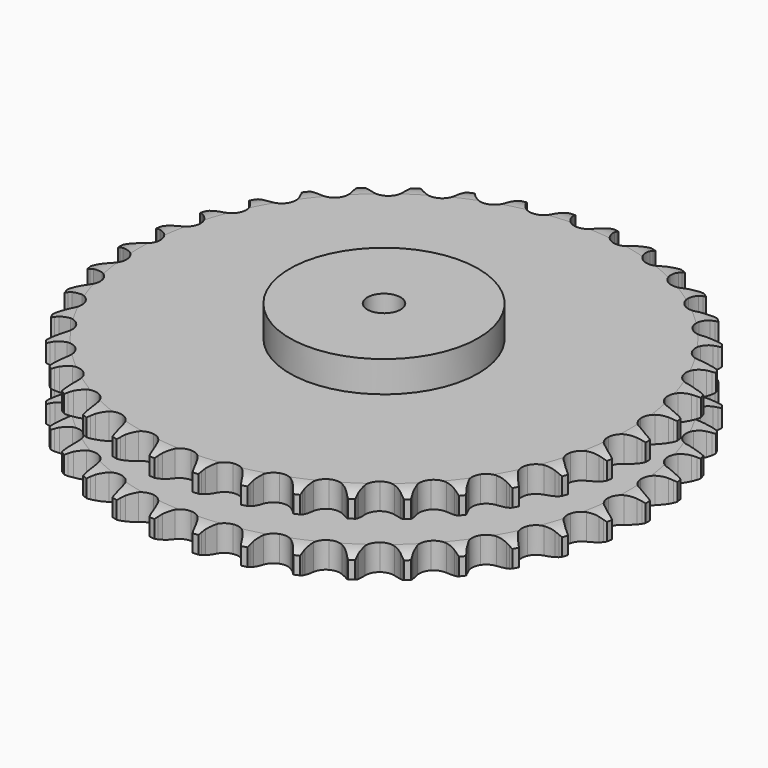
from build123d import *

# Parameters (mm, degrees)
PAD_DEPTH         = 72
SKETCH001_R       = 85
PAD001_DEPTH      = 100
SKETCH002_R       = 15
POCKET_DEPTH      = 0.001
POCKET_DEPTH_BACK = 100.001


with BuildPart() as part:
    # Sprocket → Pad (new body)
    with BuildSketch(Plane.XY):
        with BuildLine():
            ThreePointArc((-20.010023, 241.485064), (-17.70765, 238.347274), (-16.034715, 234.833312))
            Line((-16.034715, 234.833312), (-14.796002, 231.439679))
            ThreePointArc((-14.796002, 231.439679), (-12.840789, 227.085923), (-10.280152, 223.058369))
            ThreePointArc((-10.280152, 223.058369), (-5.754103, 219.251698), (0, 217.885624))
            ThreePointArc((0, 217.885624), (5.754103, 219.251698), (10.280152, 223.058369))
            ThreePointArc((10.280152, 223.058369), (12.840789, 227.085923), (14.796002, 231.439679))
            Line((14.796002, 231.439679), (16.034715, 234.833312))
            ThreePointArc((16.034715, 234.833312), (17.70765, 238.347274), (20.010023, 241.485064))
            ThreePointArc((20.010023, 241.485064), (21.764531, 238.011111), (22.83627, 234.269719))
            Line((22.83627, 234.269719), (23.499515, 230.718485))
            ThreePointArc((23.499515, 230.718485), (24.711457, 226.102291), (26.574257, 221.708201))
            ThreePointArc((26.574257, 221.708201), (30.412019, 217.208485), (35.862795, 214.913948))
            ThreePointArc((35.862795, 214.913948), (41.763268, 215.314297), (46.854145, 218.324086))
            Line((46.854145, 218.324086), (52.687923, 225.847801))
            ThreePointArc((52.687923, 225.847801), (53.535229, 227.443825), (54.468315, 228.991264))
            ThreePointArc((54.468315, 228.991264), (56.696813, 232.181944), (59.484247, 234.89798))
            ThreePointArc((59.484247, 234.89798), (60.643033, 231.182626), (61.084342, 227.315858))
            Line((61.084342, 227.315858), (61.154027, 223.703893))
            ThreePointArc((61.154027, 223.703893), (61.589639, 218.951178), (62.703789, 214.310411))
            ThreePointArc((62.703789, 214.310411), (65.74858, 209.240391), (70.747347, 206.07998))
            ThreePointArc((70.747347, 206.07998), (76.63324, 205.503682), (82.150079, 207.634491))
            Line((82.150079, 207.634491), (89.142655, 214.095385))
            ThreePointArc((89.142655, 214.095385), (90.241102, 215.530178), (91.416162, 216.902931))
            ThreePointArc((91.416162, 216.902931), (94.139434, 219.683297), (97.335897, 221.903493))
            ThreePointArc((97.335897, 221.903493), (97.86735, 218.048081), (97.666191, 214.161414))
            Line((97.666191, 214.161414), (97.140416, 210.587241))
            ThreePointArc((97.140416, 210.587241), (96.787816, 205.827648), (97.122925, 201.066792))
            ThreePointArc((97.122925, 201.066792), (99.291692, 195.564764), (103.702095, 191.624687))
            ThreePointArc((103.702095, 191.624687), (109.412857, 190.087463), (115.205173, 191.281169))
            Line((115.205173, 191.281169), (123.165807, 196.503004))
            ThreePointArc((123.165807, 196.503004), (124.485432, 197.73743), (125.870413, 198.898053))
            ThreePointArc((125.870413, 198.898053), (129.014177, 201.192261), (132.532476, 202.856056))
            ThreePointArc((132.532476, 202.856056), (132.422102, 198.965753), (131.583962, 195.165205))
            Line((131.583962, 195.165205), (130.477068, 191.726319))
            ThreePointArc((130.477068, 191.726319), (129.345874, 187.089677), (128.892801, 182.338595))
            ThreePointArc((128.892801, 182.338595), (130.126384, 176.55464), (133.82812, 171.942373))
            ThreePointArc((133.82812, 171.942373), (139.207976, 169.486154), (145.11777, 169.710195))
            Line((145.11777, 169.710195), (153.829318, 173.550533))
            ThreePointArc((153.829318, 173.550533), (155.334124, 174.550921), (156.891249, 175.467753))
            ThreePointArc((156.891249, 175.467753), (160.36975, 177.213226), (164.113916, 178.275236))
            ThreePointArc((164.113916, 178.275236), (163.364724, 174.456158), (161.912465, 170.845398))
            Line((161.912465, 170.845398), (160.254646, 167.635602))
            ThreePointArc((160.254646, 167.635602), (158.375714, 163.248386), (157.146818, 158.636676))
            ThreePointArc((157.146818, 158.636676), (157.411569, 152.728566), (160.303664, 147.569918))
            ThreePointArc((160.303664, 147.569918), (165.205865, 144.261703), (171.071933, 143.509969))
            Line((171.071933, 143.509969), (180.296765, 145.864057))
            ThreePointArc((180.296765, 145.864057), (181.945707, 146.603117), (183.632499, 147.251151))
            ThreePointArc((183.632499, 147.251151), (187.350854, 148.400275), (191.218755, 148.831531))
            ThreePointArc((191.218755, 148.831531), (189.851181, 145.187853), (187.824418, 141.865373))
            Line((187.824418, 141.865373), (185.660895, 138.972223))
            ThreePointArc((185.660895, 138.972223), (183.085477, 134.954105), (181.114279, 130.607563))
            ThreePointArc((181.114279, 130.607563), (180.402976, 124.736455), (182.406541, 119.172141))
            ThreePointArc((182.406541, 119.172141), (186.697368, 115.10217), (192.359699, 113.395165))
            Line((192.359699, 113.395165), (201.846187, 114.198789))
            ThreePointArc((201.846187, 114.198789), (203.594284, 114.656363), (205.364734, 115.017921))
            ThreePointArc((205.364734, 115.017921), (209.221515, 115.539352), (213.107645, 115.32809))
            ThreePointArc((213.107645, 115.32809), (211.158994, 111.959203), (208.613011, 109.015631))
            Line((208.613011, 109.015631), (206.002798, 106.518044))
            ThreePointArc((206.002798, 106.518044), (202.801145, 102.978628), (200.141414, 99.015815))
            ThreePointArc((200.141414, 99.015815), (198.47346, 93.341858), (199.533843, 87.523658))
            ThreePointArc((199.533843, 87.523658), (203.096254, 82.80295), (208.400395, 80.187237))
            Line((208.400395, 80.187237), (217.889771, 79.418476))
            ThreePointArc((217.889771, 79.418476), (219.689341, 79.582082), (221.495155, 79.647302))
            ThreePointArc((221.495155, 79.647302), (225.385158, 79.526816), (229.183515, 78.6788))
            ThreePointArc((229.183515, 78.6788), (226.70694, 75.676597), (223.711185, 73.192227))
            Line((223.711185, 73.192227), (220.725482, 71.158331))
            ThreePointArc((220.725482, 71.158331), (216.984927, 68.194162), (213.709214, 64.723174))
            ThreePointArc((213.709214, 64.723174), (211.130106, 59.401139), (211.218382, 53.487759))
            ThreePointArc((211.218382, 53.487759), (213.955203, 48.245081), (218.75647, 44.79201))
            Line((218.75647, 44.79201), (227.98989, 42.471834))
            ThreePointArc((227.98989, 42.471834), (229.791845, 42.337009), (231.583764, 42.104113))
            ThreePointArc((231.583764, 42.104113), (235.400882, 41.344996), (239.007855, 39.883357))
            ThreePointArc((239.007855, 39.883357), (236.070911, 37.329731), (232.7071, 35.37233))
            Line((232.7071, 35.37233), (229.427351, 33.857604))
            ThreePointArc((229.427351, 33.857604), (225.249925, 31.549538), (221.447583, 28.665054))
            ThreePointArc((221.447583, 28.665054), (218.027672, 23.840112), (217.141435, 17.992852))
            ThreePointArc((217.141435, 17.992852), (218.978013, 12.371212), (223.14544, 8.174974))
            Line((223.14544, 8.174974), (231.871039, 4.366671))
            ThreePointArc((231.871039, 4.366671), (233.626226, 3.937093), (235.355373, 3.412433))
            ThreePointArc((235.355373, 3.412433), (238.995483, 2.035393), (242.312684, 0))
            ThreePointArc((242.312684, 0), (238.995483, -2.035393), (235.355373, -3.412433))
            Line((235.355373, -3.412433), (231.871039, -4.366671))
            ThreePointArc((231.871039, -4.366671), (227.370693, -5.955676), (223.14544, -8.174974))
            ThreePointArc((223.14544, -8.174974), (218.978013, -12.371212), (217.141435, -17.992852))
            ThreePointArc((217.141435, -17.992852), (218.027672, -23.840112), (221.447583, -28.665054))
            Line((221.447583, -28.665054), (229.427351, -33.857604))
            ThreePointArc((229.427351, -33.857604), (231.087893, -34.570217), (232.7071, -35.37233))
            ThreePointArc((232.7071, -35.37233), (236.070911, -37.329731), (239.007855, -39.883357))
            ThreePointArc((239.007855, -39.883357), (235.400882, -41.344996), (231.583764, -42.104113))
            Line((231.583764, -42.104113), (227.98989, -42.471834))
            ThreePointArc((227.98989, -42.471834), (223.289381, -43.298434), (218.75647, -44.79201))
            ThreePointArc((218.75647, -44.79201), (213.955203, -48.245081), (211.218382, -53.487759))
            ThreePointArc((211.218382, -53.487759), (211.130106, -59.401139), (213.709214, -64.723174))
            Line((213.709214, -64.723174), (220.725482, -71.158331))
            ThreePointArc((220.725482, -71.158331), (222.246084, -72.134542), (223.711185, -73.192227))
            ThreePointArc((223.711185, -73.192227), (226.70694, -75.676597), (229.183515, -78.6788))
            ThreePointArc((229.183515, -78.6788), (225.385158, -79.526816), (221.495155, -79.647302))
            Line((221.495155, -79.647302), (217.889771, -79.418476))
            ThreePointArc((217.889771, -79.418476), (213.117317, -79.460124), (208.400395, -80.187237))
            ThreePointArc((208.400395, -80.187237), (203.096254, -82.80295), (199.533843, -87.523658))
            ThreePointArc((199.533843, -87.523658), (198.47346, -93.341858), (200.141414, -99.015815))
            Line((200.141414, -99.015815), (206.002798, -106.518044))
            ThreePointArc((206.002798, -106.518044), (207.341982, -107.731224), (208.613011, -109.015631))
            ThreePointArc((208.613011, -109.015631), (211.158994, -111.959203), (213.107645, -115.32809))
            ThreePointArc((213.107645, -115.32809), (209.221515, -115.539352), (205.364734, -115.017921))
            Line((205.364734, -115.017921), (201.846187, -114.198789))
            ThreePointArc((201.846187, -114.198789), (197.131968, -113.454349), (192.359699, -113.395165))
            ThreePointArc((192.359699, -113.395165), (186.697368, -115.10217), (182.406541, -119.172141))
            ThreePointArc((182.406541, -119.172141), (180.402976, -124.736455), (181.114279, -130.607563))
            Line((181.114279, -130.607563), (185.660895, -138.972223))
            ThreePointArc((185.660895, -138.972223), (186.782131, -140.389279), (187.824418, -141.865373))
            ThreePointArc((187.824418, -141.865373), (189.851181, -145.187853), (191.218755, -148.831531))
            ThreePointArc((191.218755, -148.831531), (187.350854, -148.400275), (183.632499, -147.251151))
            Line((183.632499, -147.251151), (180.296765, -145.864057))
            ThreePointArc((180.296765, -145.864057), (175.769373, -144.353835), (171.071933, -143.509969))
            ThreePointArc((171.071933, -143.509969), (165.205865, -144.261703), (160.303664, -147.569918))
            ThreePointArc((160.303664, -147.569918), (157.411569, -152.728566), (157.146818, -158.636676))
            Line((157.146818, -158.636676), (160.254646, -167.635602))
            ThreePointArc((160.254646, -167.635602), (161.127351, -169.21788), (161.912465, -170.845398))
            ThreePointArc((161.912465, -170.845398), (163.364724, -174.456158), (164.113916, -178.275236))
            ThreePointArc((164.113916, -178.275236), (160.36975, -177.213226), (156.891249, -175.467753))
            Line((156.891249, -175.467753), (153.829318, -173.550533))
            ThreePointArc((153.829318, -173.550533), (149.612247, -171.315725), (145.11777, -169.710195))
            ThreePointArc((145.11777, -169.710195), (139.207976, -169.486154), (133.82812, -171.942373))
            ThreePointArc((133.82812, -171.942373), (130.126384, -176.55464), (128.892801, -182.338595))
            Line((128.892801, -182.338595), (130.477068, -191.726319))
            ThreePointArc((130.477068, -191.726319), (131.077436, -193.430659), (131.583962, -195.165205))
            ThreePointArc((131.583962, -195.165205), (132.422102, -198.965753), (132.532476, -202.856056))
            ThreePointArc((132.532476, -202.856056), (129.014177, -201.192261), (125.870413, -198.898053))
            Line((125.870413, -198.898053), (123.165807, -196.503004))
            ThreePointArc((123.165807, -196.503004), (119.37409, -193.604569), (115.205173, -191.281169))
            ThreePointArc((115.205173, -191.281169), (109.412857, -190.087463), (103.702095, -191.624687))
            ThreePointArc((103.702095, -191.624687), (99.291692, -195.564764), (97.122925, -201.066792))
            Line((97.122925, -201.066792), (97.140416, -210.587241))
            ThreePointArc((97.140416, -210.587241), (97.45207, -212.367154), (97.666191, -214.161414))
            ThreePointArc((97.666191, -214.161414), (97.86735, -218.048081), (97.335897, -221.903493))
            ThreePointArc((97.335897, -221.903493), (94.139434, -219.683297), (91.416162, -216.902931))
            Line((91.416162, -216.902931), (89.142655, -214.095385))
            ThreePointArc((89.142655, -214.095385), (85.879718, -210.612384), (82.150079, -207.634491))
            ThreePointArc((82.150079, -207.634491), (76.63324, -205.503682), (70.747347, -206.07998))
            ThreePointArc((70.747347, -206.07998), (65.74858, -209.240391), (62.703789, -214.310411))
            Line((62.703789, -214.310411), (61.154027, -223.703893))
            ThreePointArc((61.154027, -223.703893), (61.168466, -225.510826), (61.084342, -227.315858))
            ThreePointArc((61.084342, -227.315858), (60.643033, -231.182626), (59.484247, -234.89798))
            ThreePointArc((59.484247, -234.89798), (56.696813, -232.181944), (54.468315, -228.991264))
            Line((54.468315, -228.991264), (52.687923, -225.847801))
            ThreePointArc((52.687923, -225.847801), (50.042772, -221.875243), (46.854145, -218.324086))
            ThreePointArc((46.854145, -218.324086), (41.763268, -215.314297), (35.862795, -214.913948))
            ThreePointArc((35.862795, -214.913948), (30.412019, -217.208485), (26.574257, -221.708201))
            Line((26.574257, -221.708201), (23.499515, -230.718485))
            ThreePointArc((23.499515, -230.718485), (23.216346, -232.503151), (22.83627, -234.269719))
            ThreePointArc((22.83627, -234.269719), (21.764531, -238.011111), (20.010023, -241.485064))
            ThreePointArc((20.010023, -241.485064), (17.70765, -238.347274), (16.034715, -234.833312))
            Line((16.034715, -234.833312), (14.796002, -231.439679))
            ThreePointArc((14.796002, -231.439679), (12.840789, -227.085923), (10.280152, -223.058369))
            ThreePointArc((10.280152, -223.058369), (5.754103, -219.251698), (0, -217.885624))
            ThreePointArc((0, -217.885624), (-5.754103, -219.251698), (-10.280152, -223.058369))
            Line((-10.280152, -223.058369), (-14.796002, -231.439679))
            ThreePointArc((-14.796002, -231.439679), (-15.369055, -233.153396), (-16.034715, -234.833312))
            ThreePointArc((-16.034715, -234.833312), (-17.70765, -238.347274), (-20.010023, -241.485064))
            ThreePointArc((-20.010023, -241.485064), (-21.764531, -238.011111), (-22.83627, -234.269719))
            Line((-22.83627, -234.269719), (-23.499515, -230.718485))
            ThreePointArc((-23.499515, -230.718485), (-24.711457, -226.102291), (-26.574257, -221.708201))
            ThreePointArc((-26.574257, -221.708201), (-30.412019, -217.208485), (-35.862795, -214.913948))
            ThreePointArc((-35.862795, -214.913948), (-41.763268, -215.314297), (-46.854145, -218.324086))
            Line((-46.854145, -218.324086), (-52.687923, -225.847801))
            ThreePointArc((-52.687923, -225.847801), (-53.535229, -227.443825), (-54.468315, -228.991264))
            ThreePointArc((-54.468315, -228.991264), (-56.696813, -232.181944), (-59.484247, -234.89798))
            ThreePointArc((-59.484247, -234.89798), (-60.643033, -231.182626), (-61.084342, -227.315858))
            Line((-61.084342, -227.315858), (-61.154027, -223.703893))
            ThreePointArc((-61.154027, -223.703893), (-61.589639, -218.951178), (-62.703789, -214.310411))
            ThreePointArc((-62.703789, -214.310411), (-65.74858, -209.240391), (-70.747347, -206.07998))
            ThreePointArc((-70.747347, -206.07998), (-76.63324, -205.503682), (-82.150079, -207.634491))
            Line((-82.150079, -207.634491), (-89.142655, -214.095385))
            ThreePointArc((-89.142655, -214.095385), (-90.241102, -215.530178), (-91.416162, -216.902931))
            ThreePointArc((-91.416162, -216.902931), (-94.139434, -219.683297), (-97.335897, -221.903493))
            ThreePointArc((-97.335897, -221.903493), (-97.86735, -218.048081), (-97.666191, -214.161414))
            Line((-97.666191, -214.161414), (-97.140416, -210.587241))
            ThreePointArc((-97.140416, -210.587241), (-96.787816, -205.827648), (-97.122925, -201.066792))
            ThreePointArc((-97.122925, -201.066792), (-99.291692, -195.564764), (-103.702095, -191.624687))
            ThreePointArc((-103.702095, -191.624687), (-109.412857, -190.087463), (-115.205173, -191.281169))
            Line((-115.205173, -191.281169), (-123.165807, -196.503004))
            ThreePointArc((-123.165807, -196.503004), (-124.485432, -197.73743), (-125.870413, -198.898053))
            ThreePointArc((-125.870413, -198.898053), (-129.014177, -201.192261), (-132.532476, -202.856056))
            ThreePointArc((-132.532476, -202.856056), (-132.422102, -198.965753), (-131.583962, -195.165205))
            Line((-131.583962, -195.165205), (-130.477068, -191.726319))
            ThreePointArc((-130.477068, -191.726319), (-129.345874, -187.089677), (-128.892801, -182.338595))
            ThreePointArc((-128.892801, -182.338595), (-130.126384, -176.55464), (-133.82812, -171.942373))
            ThreePointArc((-133.82812, -171.942373), (-139.207976, -169.486154), (-145.11777, -169.710195))
            Line((-145.11777, -169.710195), (-153.829318, -173.550533))
            ThreePointArc((-153.829318, -173.550533), (-155.334124, -174.550921), (-156.891249, -175.467753))
            ThreePointArc((-156.891249, -175.467753), (-160.36975, -177.213226), (-164.113916, -178.275236))
            ThreePointArc((-164.113916, -178.275236), (-163.364724, -174.456158), (-161.912465, -170.845398))
            Line((-161.912465, -170.845398), (-160.254646, -167.635602))
            ThreePointArc((-160.254646, -167.635602), (-158.375714, -163.248386), (-157.146818, -158.636676))
            ThreePointArc((-157.146818, -158.636676), (-157.411569, -152.728566), (-160.303664, -147.569918))
            ThreePointArc((-160.303664, -147.569918), (-165.205865, -144.261703), (-171.071933, -143.509969))
            Line((-171.071933, -143.509969), (-180.296765, -145.864057))
            ThreePointArc((-180.296765, -145.864057), (-181.945707, -146.603117), (-183.632499, -147.251151))
            ThreePointArc((-183.632499, -147.251151), (-187.350854, -148.400275), (-191.218755, -148.831531))
            ThreePointArc((-191.218755, -148.831531), (-189.851181, -145.187853), (-187.824418, -141.865373))
            Line((-187.824418, -141.865373), (-185.660895, -138.972223))
            ThreePointArc((-185.660895, -138.972223), (-183.085477, -134.954105), (-181.114279, -130.607563))
            ThreePointArc((-181.114279, -130.607563), (-180.402976, -124.736455), (-182.406541, -119.172141))
            ThreePointArc((-182.406541, -119.172141), (-186.697368, -115.10217), (-192.359699, -113.395165))
            Line((-192.359699, -113.395165), (-201.846187, -114.198789))
            ThreePointArc((-201.846187, -114.198789), (-203.594284, -114.656363), (-205.364734, -115.017921))
            ThreePointArc((-205.364734, -115.017921), (-209.221515, -115.539352), (-213.107645, -115.32809))
            ThreePointArc((-213.107645, -115.32809), (-211.158994, -111.959203), (-208.613011, -109.015631))
            Line((-208.613011, -109.015631), (-206.002798, -106.518044))
            ThreePointArc((-206.002798, -106.518044), (-202.801145, -102.978628), (-200.141414, -99.015815))
            ThreePointArc((-200.141414, -99.015815), (-198.47346, -93.341858), (-199.533843, -87.523658))
            ThreePointArc((-199.533843, -87.523658), (-203.096254, -82.80295), (-208.400395, -80.187237))
            Line((-208.400395, -80.187237), (-217.889771, -79.418476))
            ThreePointArc((-217.889771, -79.418476), (-219.689341, -79.582082), (-221.495155, -79.647302))
            ThreePointArc((-221.495155, -79.647302), (-225.385158, -79.526816), (-229.183515, -78.6788))
            ThreePointArc((-229.183515, -78.6788), (-226.70694, -75.676597), (-223.711185, -73.192227))
            Line((-223.711185, -73.192227), (-220.725482, -71.158331))
            ThreePointArc((-220.725482, -71.158331), (-216.984927, -68.194162), (-213.709214, -64.723174))
            ThreePointArc((-213.709214, -64.723174), (-211.130106, -59.401139), (-211.218382, -53.487759))
            ThreePointArc((-211.218382, -53.487759), (-213.955203, -48.245081), (-218.75647, -44.79201))
            Line((-218.75647, -44.79201), (-227.98989, -42.471834))
            ThreePointArc((-227.98989, -42.471834), (-229.791845, -42.337009), (-231.583764, -42.104113))
            ThreePointArc((-231.583764, -42.104113), (-235.400882, -41.344996), (-239.007855, -39.883357))
            ThreePointArc((-239.007855, -39.883357), (-236.070911, -37.329731), (-232.7071, -35.37233))
            Line((-232.7071, -35.37233), (-229.427351, -33.857604))
            ThreePointArc((-229.427351, -33.857604), (-225.249925, -31.549538), (-221.447583, -28.665054))
            ThreePointArc((-221.447583, -28.665054), (-218.027672, -23.840112), (-217.141435, -17.992852))
            ThreePointArc((-217.141435, -17.992852), (-218.978013, -12.371212), (-223.14544, -8.174974))
            Line((-223.14544, -8.174974), (-231.871039, -4.366671))
            ThreePointArc((-231.871039, -4.366671), (-233.626226, -3.937093), (-235.355373, -3.412433))
            ThreePointArc((-235.355373, -3.412433), (-238.995483, -2.035393), (-242.312684, 0))
            ThreePointArc((-242.312684, 0), (-238.995483, 2.035393), (-235.355373, 3.412433))
            Line((-235.355373, 3.412433), (-231.871039, 4.366671))
            ThreePointArc((-231.871039, 4.366671), (-227.370693, 5.955676), (-223.14544, 8.174974))
            ThreePointArc((-223.14544, 8.174974), (-218.978013, 12.371212), (-217.141435, 17.992852))
            ThreePointArc((-217.141435, 17.992852), (-218.027672, 23.840112), (-221.447583, 28.665054))
            Line((-221.447583, 28.665054), (-229.427351, 33.857604))
            ThreePointArc((-229.427351, 33.857604), (-231.087893, 34.570217), (-232.7071, 35.37233))
            ThreePointArc((-232.7071, 35.37233), (-236.070911, 37.329731), (-239.007855, 39.883357))
            ThreePointArc((-239.007855, 39.883357), (-235.400882, 41.344996), (-231.583764, 42.104113))
            Line((-231.583764, 42.104113), (-227.98989, 42.471834))
            ThreePointArc((-227.98989, 42.471834), (-223.289381, 43.298434), (-218.75647, 44.79201))
            ThreePointArc((-218.75647, 44.79201), (-213.955203, 48.245081), (-211.218382, 53.487759))
            ThreePointArc((-211.218382, 53.487759), (-211.130106, 59.401139), (-213.709214, 64.723174))
            Line((-213.709214, 64.723174), (-220.725482, 71.158331))
            ThreePointArc((-220.725482, 71.158331), (-222.246084, 72.134542), (-223.711185, 73.192227))
            ThreePointArc((-223.711185, 73.192227), (-226.70694, 75.676597), (-229.183515, 78.6788))
            ThreePointArc((-229.183515, 78.6788), (-225.385158, 79.526816), (-221.495155, 79.647302))
            Line((-221.495155, 79.647302), (-217.889771, 79.418476))
            ThreePointArc((-217.889771, 79.418476), (-213.117317, 79.460124), (-208.400395, 80.187237))
            ThreePointArc((-208.400395, 80.187237), (-203.096254, 82.80295), (-199.533843, 87.523658))
            ThreePointArc((-199.533843, 87.523658), (-198.47346, 93.341858), (-200.141414, 99.015815))
            Line((-200.141414, 99.015815), (-206.002798, 106.518044))
            ThreePointArc((-206.002798, 106.518044), (-207.341982, 107.731224), (-208.613011, 109.015631))
            ThreePointArc((-208.613011, 109.015631), (-211.158994, 111.959203), (-213.107645, 115.32809))
            ThreePointArc((-213.107645, 115.32809), (-209.221515, 115.539352), (-205.364734, 115.017921))
            Line((-205.364734, 115.017921), (-201.846187, 114.198789))
            ThreePointArc((-201.846187, 114.198789), (-197.131968, 113.454349), (-192.359699, 113.395165))
            ThreePointArc((-192.359699, 113.395165), (-186.697368, 115.10217), (-182.406541, 119.172141))
            ThreePointArc((-182.406541, 119.172141), (-180.402976, 124.736455), (-181.114279, 130.607563))
            Line((-181.114279, 130.607563), (-185.660895, 138.972223))
            ThreePointArc((-185.660895, 138.972223), (-186.782131, 140.389279), (-187.824418, 141.865373))
            ThreePointArc((-187.824418, 141.865373), (-189.851181, 145.187853), (-191.218755, 148.831531))
            ThreePointArc((-191.218755, 148.831531), (-187.350854, 148.400275), (-183.632499, 147.251151))
            Line((-183.632499, 147.251151), (-180.296765, 145.864057))
            ThreePointArc((-180.296765, 145.864057), (-175.769373, 144.353835), (-171.071933, 143.509969))
            ThreePointArc((-171.071933, 143.509969), (-165.205865, 144.261703), (-160.303664, 147.569918))
            ThreePointArc((-160.303664, 147.569918), (-157.411569, 152.728566), (-157.146818, 158.636676))
            Line((-157.146818, 158.636676), (-160.254646, 167.635602))
            ThreePointArc((-160.254646, 167.635602), (-161.127351, 169.21788), (-161.912465, 170.845398))
            ThreePointArc((-161.912465, 170.845398), (-163.364724, 174.456158), (-164.113916, 178.275236))
            ThreePointArc((-164.113916, 178.275236), (-160.36975, 177.213226), (-156.891249, 175.467753))
            Line((-156.891249, 175.467753), (-153.829318, 173.550533))
            ThreePointArc((-153.829318, 173.550533), (-149.612247, 171.315725), (-145.11777, 169.710195))
            ThreePointArc((-145.11777, 169.710195), (-139.207976, 169.486154), (-133.82812, 171.942373))
            ThreePointArc((-133.82812, 171.942373), (-130.126384, 176.55464), (-128.892801, 182.338595))
            Line((-128.892801, 182.338595), (-130.477068, 191.726319))
            ThreePointArc((-130.477068, 191.726319), (-131.077436, 193.430659), (-131.583962, 195.165205))
            ThreePointArc((-131.583962, 195.165205), (-132.422102, 198.965753), (-132.532476, 202.856056))
            ThreePointArc((-132.532476, 202.856056), (-129.014177, 201.192261), (-125.870413, 198.898053))
            Line((-125.870413, 198.898053), (-123.165807, 196.503004))
            ThreePointArc((-123.165807, 196.503004), (-119.37409, 193.604569), (-115.205173, 191.281169))
            ThreePointArc((-115.205173, 191.281169), (-109.412857, 190.087463), (-103.702095, 191.624687))
            ThreePointArc((-103.702095, 191.624687), (-99.291692, 195.564764), (-97.122925, 201.066792))
            Line((-97.122925, 201.066792), (-97.140416, 210.587241))
            ThreePointArc((-97.140416, 210.587241), (-97.45207, 212.367154), (-97.666191, 214.161414))
            ThreePointArc((-97.666191, 214.161414), (-97.86735, 218.048081), (-97.335897, 221.903493))
            ThreePointArc((-97.335897, 221.903493), (-94.139434, 219.683297), (-91.416162, 216.902931))
            Line((-91.416162, 216.902931), (-89.142655, 214.095385))
            ThreePointArc((-89.142655, 214.095385), (-85.879718, 210.612384), (-82.150079, 207.634491))
            ThreePointArc((-82.150079, 207.634491), (-76.63324, 205.503682), (-70.747347, 206.07998))
            ThreePointArc((-70.747347, 206.07998), (-65.74858, 209.240391), (-62.703789, 214.310411))
            Line((-62.703789, 214.310411), (-61.154027, 223.703893))
            ThreePointArc((-61.154027, 223.703893), (-61.168466, 225.510826), (-61.084342, 227.315858))
            ThreePointArc((-61.084342, 227.315858), (-60.643033, 231.182626), (-59.484247, 234.89798))
            ThreePointArc((-59.484247, 234.89798), (-56.696813, 232.181944), (-54.468315, 228.991264))
            Line((-54.468315, 228.991264), (-52.687923, 225.847801))
            ThreePointArc((-52.687923, 225.847801), (-50.042772, 221.875243), (-46.854145, 218.324086))
            ThreePointArc((-46.854145, 218.324086), (-41.763268, 215.314297), (-35.862795, 214.913948))
            ThreePointArc((-35.862795, 214.913948), (-30.412019, 217.208485), (-26.574257, 221.708201))
            Line((-26.574257, 221.708201), (-23.499515, 230.718485))
            ThreePointArc((-23.499515, 230.718485), (-23.216346, 232.503151), (-22.83627, 234.269719))
            ThreePointArc((-22.83627, 234.269719), (-21.764531, 238.011111), (-20.010023, 241.485064))
        make_face()
    extrude(amount=PAD_DEPTH)

    # Sketch → Groove (revolve, cut)
    with BuildSketch(Plane.XZ):
        with BuildLine():
            ThreePointArc((221.129437, 0), (229.847235, 1.013516), (238.1, 4))
            Line((238.1, 4), (238.1, 19.6))
            ThreePointArc((238.1, 19.6), (229.847235, 22.586484), (221.129437, 23.6))
            Line((85, 23.6), (221.129437, 23.6))
            Line((85, 48.4), (85, 23.6))
            Line((221.129437, 48.4), (85, 48.4))
            ThreePointArc((221.129437, 48.4), (229.847235, 49.413516), (238.1, 52.4))
            Line((238.1, 52.4), (238.1, 68))
            ThreePointArc((238.1, 68), (229.847235, 70.986484), (221.129437, 72))
            Line((221.129437, 72), (248.1, 72))
            Line((248.1, 72), (248.1, 0))
            Line((221.129437, 0), (248.1, 0))
        make_face()
    revolve(axis=Axis((0, 0, 0), (0, 0, 1)), mode=Mode.SUBTRACT)

    # Sketch001 → Pad001 (join)
    with BuildSketch(Plane.XY):
        Circle(SKETCH001_R)
    extrude(amount=PAD001_DEPTH)

    # Sketch002 → Pocket (cut, two sides)
    with BuildSketch(Plane.XY) as pocket_sk:
        Circle(SKETCH002_R)
    extrude(amount=-POCKET_DEPTH, mode=Mode.SUBTRACT)
    extrude(pocket_sk.sketch, amount=POCKET_DEPTH_BACK, mode=Mode.SUBTRACT)


solid = part.part
